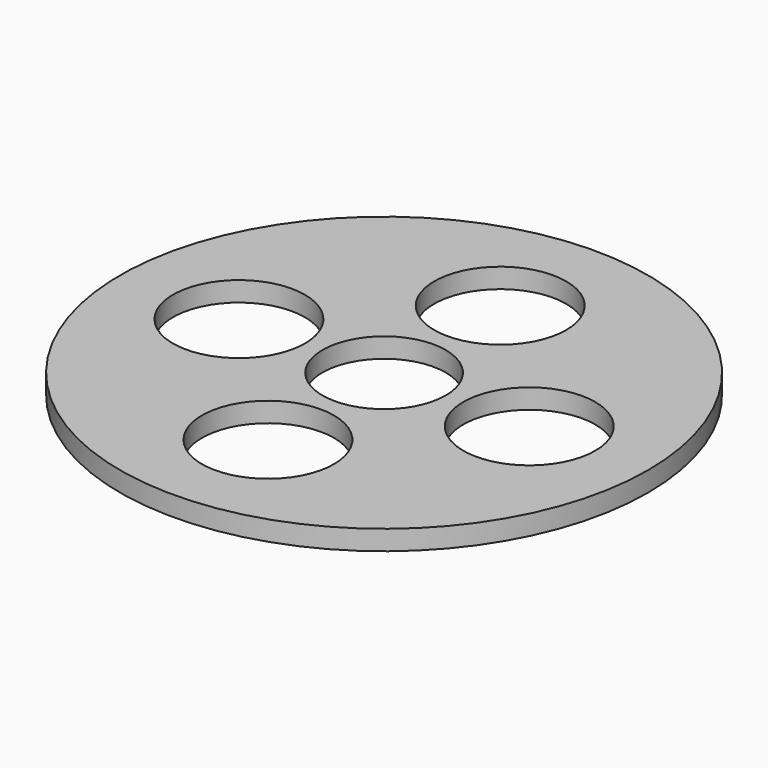
from build123d import *

# Parameters (mm, degrees)
F0_R     = 40
F0_R_2   = 10
F0_R_3   = 9.332932
F1_DEPTH = 1.5


with BuildPart() as f1:
    # F0 (on Top) → F1 (new body, symmetric)
    with BuildSketch(Plane.XY):
        Circle(F0_R)
        with Locations((0, -22)):
            Circle(F0_R_2, mode=Mode.SUBTRACT)
        with Locations((-22, 0)):
            Circle(F0_R_2, mode=Mode.SUBTRACT)
        Circle(F0_R_3, mode=Mode.SUBTRACT)
        with Locations((22, 0)):
            Circle(F0_R_2, mode=Mode.SUBTRACT)
        with Locations((0, 22)):
            Circle(F0_R_2, mode=Mode.SUBTRACT)
    extrude(amount=F1_DEPTH, both=True)


solid = f1.part
